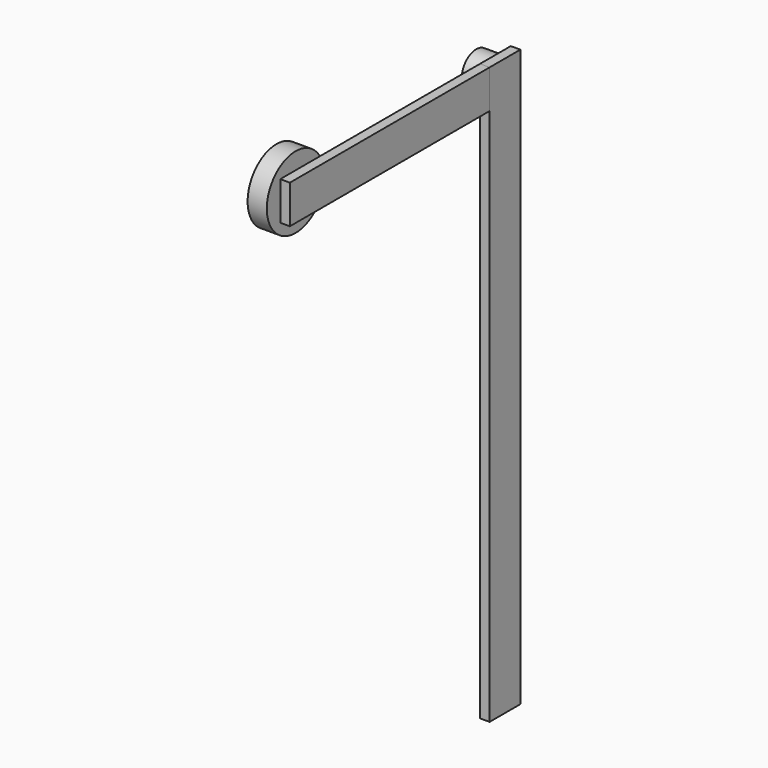
from build123d import *

# Parameters (mm, degrees)
F0_W     = 76.2
F0_H     = 10.16
F1_DEPTH = 2.54
F2_R     = 9.525
F2_R_2   = 4.7625
F3_DEPTH = 5.08
F4_W     = 10.16
F4_H     = 152.4
F5_DEPTH = 2.54


with BuildPart() as f1:
    # F0 (on Right) → F1 (new body)
    with BuildSketch(Plane.YZ):
        with Locations((33.02, 0)):
            Rectangle(F0_W, F0_H)
    extrude(amount=F1_DEPTH)


with BuildPart() as f3:
    # F2 (on Right) → F3 (new body)
    with BuildSketch(Plane.YZ):
        Circle(F2_R)
        with Locations((66.04, 0)):
            Circle(F2_R_2)
    extrude(amount=-F3_DEPTH)


with BuildPart() as f5:
    # F4 (on Right) → F5 (new body)
    with BuildSketch(Plane.YZ):
        with Locations((66.04, -71.12)):
            Rectangle(F4_W, F4_H)
    extrude(amount=F5_DEPTH)


solid = Compound([f1.part, f3.part, f5.part])
